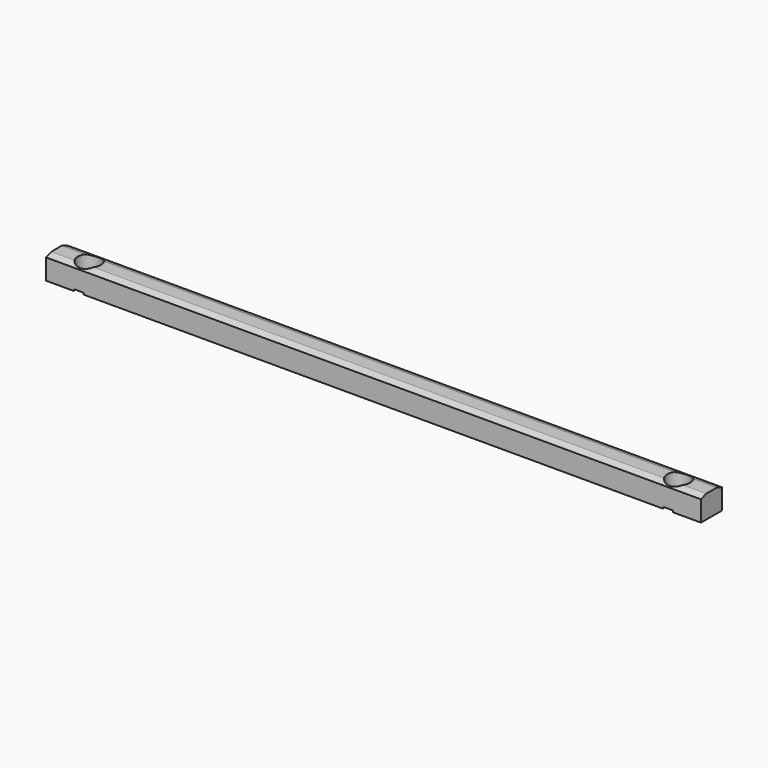
from build123d import *

# Parameters (mm, degrees)
F1_DEPTH = 1270
F2_R     = 44.45
F3_DEPTH = 88.901
F4_R     = 54.0385
F5_DEPTH = 6.35
F6_SIZE  = 1.524
F7_SIZE  = 1.524


with BuildPart() as f1:
    # F0 (on Right) → F1 (new body, symmetric)
    with BuildSketch(Plane.YZ):
        Polygon((25.4, 0), (-25.4, 0), (-50.8, -9.244844), (-50.8, -88.9), (50.8, -88.9), (50.8, -9.244844), align=None)
    extrude(amount=F1_DEPTH, both=True)

    # F2 (on Top) → F3 (cut, through all)
    with BuildSketch(Plane.XY):
        with Locations((1143, 0)):
            Circle(F2_R)
        with Locations((-1143, 0)):
            Circle(F2_R)
    extrude(amount=-F3_DEPTH, mode=Mode.SUBTRACT)

    # F4 (on face) → F5 (cut)
    with BuildSketch(Plane(origin=(0, 0, -88.9), x_dir=(1, 0, 0), z_dir=(0, 0, -1))):
        with Locations((1143, 0)):
            Circle(F4_R)
        with Locations((-1143, 0)):
            Circle(F4_R)
    extrude(amount=-F5_DEPTH, mode=Mode.SUBTRACT)

    # F6
    f6_edges = [f1.edges().sort_by_distance(p)[0] for p in [
        (1098.55, 0, -82.55),
    ]]
    chamfer(f6_edges, length=F6_SIZE)

    # F7
    f7_edges = [f1.edges().sort_by_distance(p)[0] for p in [
        (-1187.45, 0, -82.55),
    ]]
    chamfer(f7_edges, length=F7_SIZE)


solid = f1.part
